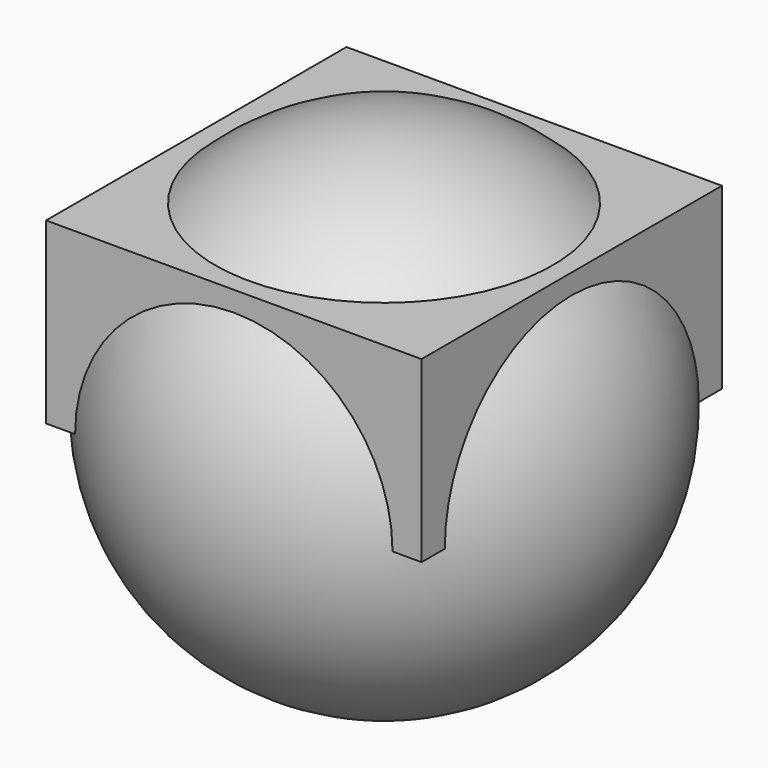
from build123d import *

# Parameters (mm, degrees)
F2_W     = 42
F2_H     = 42
F3_DEPTH = 20


with BuildPart() as f1:
    # F0 (on Front) → F1 (revolve)
    with BuildSketch(Plane.XZ):
        with BuildLine():
            Line((0, -27.5), (0, 27.5))
            ThreePointArc((0, 27.5), (-27.5, 0), (0, -27.5))
        make_face()
    revolve(axis=Axis((0, 0, 0.613028), (0, 0, 1)))

    # F2 (on Top) → F3 (join)
    with BuildSketch(Plane.XY):
        Rectangle(F2_W, F2_H)
    extrude(amount=F3_DEPTH)


solid = f1.part
